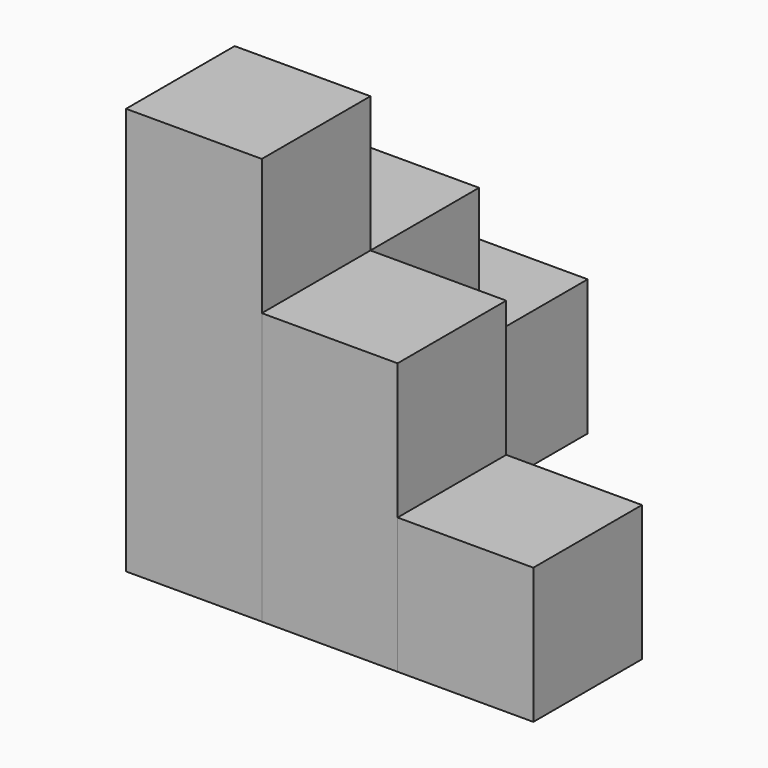
from build123d import *

# Parameters (mm, degrees)
BOX_W        = 10
BOX_H        = 10
BOX_DEPTH    = 30
BOX001_W     = 10
BOX001_H     = 10
BOX001_DEPTH = 20
BOX002_W     = 10
BOX002_H     = 10
BOX002_DEPTH = 20
BOX003_W     = 10
BOX003_H     = 10
BOX003_DEPTH = 10
BOX004_W     = 10
BOX004_H     = 10
BOX004_DEPTH = 10


with BuildPart() as nivell1_cub1:
    # Box → Box (new body)
    with BuildSketch(Plane.XY):
        with Locations((5, 5)):
            Rectangle(BOX_W, BOX_H)
    extrude(amount=BOX_DEPTH)


with BuildPart() as nivell2_cub1:
    # Box001 → Box001 (new body)
    with BuildSketch(Plane(origin=(10, 0, 0), x_dir=(1, 0, 0), z_dir=(0, 0, 1))):
        with Locations((5, 5)):
            Rectangle(BOX001_W, BOX001_H)
    extrude(amount=BOX001_DEPTH)


with BuildPart() as nivell2_cub2:
    # Box002 → Box002 (new body)
    with BuildSketch(Plane(origin=(0, 10, 0), x_dir=(1, 0, 0), z_dir=(0, 0, 1))):
        with Locations((5, 5)):
            Rectangle(BOX002_W, BOX002_H)
    extrude(amount=BOX002_DEPTH)


with BuildPart() as nivell3_cub1:
    # Box003 → Box003 (new body)
    with BuildSketch(Plane(origin=(20, 0, 0), x_dir=(1, 0, 0), z_dir=(0, 0, 1))):
        with Locations((5, 5)):
            Rectangle(BOX003_W, BOX003_H)
    extrude(amount=BOX003_DEPTH)


with BuildPart() as nivell3_cub2:
    # Box004 → Box004 (new body)
    with BuildSketch(Plane(origin=(0, 20, 0), x_dir=(1, 0, 0), z_dir=(0, 0, 1))):
        with Locations((5, 5)):
            Rectangle(BOX004_W, BOX004_H)
    extrude(amount=BOX004_DEPTH)


solid = Compound([nivell1_cub1.part, nivell2_cub1.part, nivell2_cub2.part, nivell3_cub1.part, nivell3_cub2.part])
